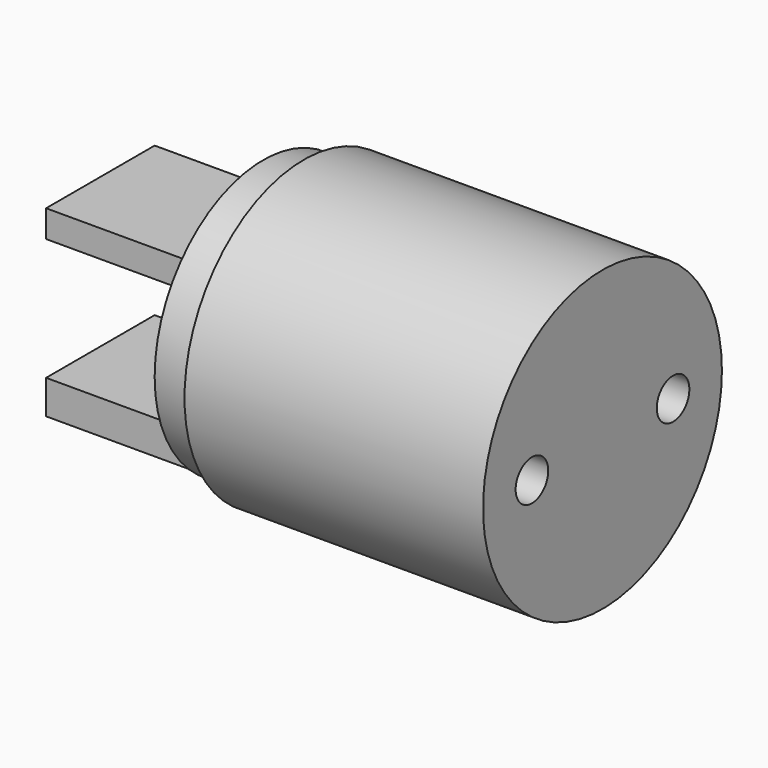
from build123d import *

# Parameters (mm, degrees)
F0_R     = 11
F0_R_2   = 1.5
F1_DEPTH = 25
F2_R     = 12.5
F2_R_2   = 10
F3_DEPTH = 3
F4_W     = 10
F4_H     = 2
F4_H_2   = 2.5
F5_DEPTH = 12


with BuildPart() as f1:
    # F0 (on Right) → F1 (new body)
    with BuildSketch(Plane.YZ):
        Circle(F0_R)
        with Locations((-6.5, 0)):
            Circle(F0_R_2, mode=Mode.SUBTRACT)
        with Locations((6.5, 0)):
            Circle(F0_R_2, mode=Mode.SUBTRACT)
    extrude(amount=F1_DEPTH)

    # F2 (on face) → F3 (cut)
    with BuildSketch(Plane(origin=(0, 0, 0), x_dir=(0, -1, 0), z_dir=(-1, 0, 0))):
        Circle(F2_R)
        Circle(F2_R_2, mode=Mode.SUBTRACT)
    extrude(amount=-F3_DEPTH, mode=Mode.SUBTRACT)

    # F4 (on face) → F5 (join)
    with BuildSketch(Plane(origin=(0, 0, 0), x_dir=(0, -1, 0), z_dir=(-1, 0, 0))):
        with Locations((0, 4)):
            Rectangle(F4_W, F4_H)
        with Locations((0, -7.25)):
            Rectangle(F4_W, F4_H_2)
    extrude(amount=F5_DEPTH)


solid = f1.part
